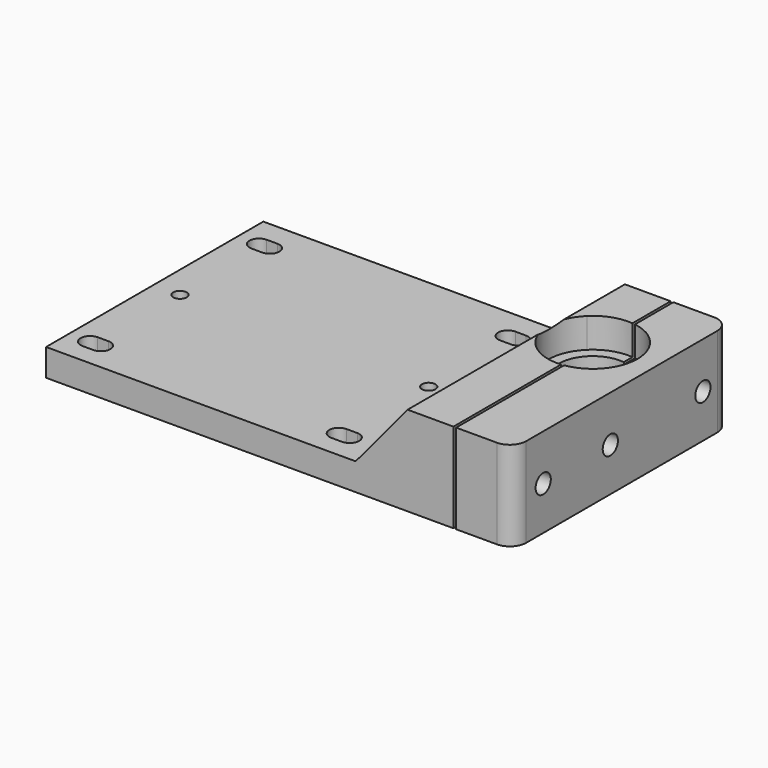
from build123d import *

# Parameters (mm, degrees)
F0_W      = 80
F0_H      = 50
F1_DEPTH  = 5
F2_W      = 23
F2_H      = 50
F3_DEPTH  = 15
F5_DEPTH  = 50
F7_DEPTH  = 25
F4_W      = 6
F4_H      = 20
F8_DEPTH  = 50
F9_R      = 1.25
F10_DEPTH = 9
F11_R     = 6.25
F11_R_2   = 1.25
F12_DEPTH = 6
F13_R     = 8.25
F13_R_2   = 1.25
F14_DEPTH = 5.5
F16_DEPTH = 25
F17_R     = 3
F19_DEPTH = 55
F21_DEPTH = 30
F24_R     = 1.25
F25_DEPTH = 10
F26_DEPTH = 10
F28_DEPTH = 30


with BuildPart() as f1:
    # F0 (on Top) → F1 (new body)
    with BuildSketch(Plane.XY):
        with Locations((40, 25)):
            Rectangle(F0_W, F0_H)
        with BuildLine():
            ThreePointArc((5.9007617161, 7.0035592838), (7.6507617161, 5.2535592838), (5.9007617161, 3.5035592838))
            Line((5.9007617161, 3.5035592838), (3.9007617161, 3.5035592838))
            ThreePointArc((3.9007617161, 3.5035592838), (2.1507617161, 5.2535592838), (3.9007617161, 7.0035592838))
            Line((3.9007617161, 7.0035592838), (5.9007617161, 7.0035592838))
        make_face(mode=Mode.SUBTRACT)
        with BuildLine():
            ThreePointArc((51.6797859669, 7.0277387462), (53.4297859669, 5.2777387462), (51.6797859669, 3.5277387462))
            Line((51.6797859669, 3.5277387462), (49.6797859669, 3.5277387462))
            ThreePointArc((49.6797859669, 3.5277387462), (47.9297859669, 5.2777387462), (49.6797859669, 7.0277387462))
            Line((49.6797859669, 7.0277387462), (51.6797859669, 7.0277387462))
        make_face(mode=Mode.SUBTRACT)
        with BuildLine():
            ThreePointArc((5.9007617161, 45.8834791875), (7.6507617161, 44.1334791875), (5.9007617161, 42.3834791875))
            Line((5.9007617161, 42.3834791875), (3.9007617161, 42.3834791875))
            ThreePointArc((3.9007617161, 42.3834791875), (2.1507617161, 44.1334791875), (3.9007617161, 45.8834791875))
            Line((3.9007617161, 45.8834791875), (5.9007617161, 45.8834791875))
        make_face(mode=Mode.SUBTRACT)
        with BuildLine():
            ThreePointArc((51.6899411082, 45.8834791875), (53.4399411082, 44.1334791875), (51.6899411082, 42.3834791875))
            Line((51.6899411082, 42.3834791875), (49.6899411082, 42.3834791875))
            ThreePointArc((49.6899411082, 42.3834791875), (47.9399411082, 44.1334791875), (49.6899411082, 45.8834791875))
            Line((49.6899411082, 45.8834791875), (51.6899411082, 45.8834791875))
        make_face(mode=Mode.SUBTRACT)
    extrude(amount=F1_DEPTH)

    # F2 (on face) → F3 (join)
    with BuildSketch(Plane.XY.offset(5)):
        with Locations((68.5, 25)):
            Rectangle(F2_W, F2_H)
    extrude(amount=F3_DEPTH)

    # F4 (on face) → F5 (cut)
    with BuildSketch(Plane.XZ):
        Polygon((57, 5), (68.5, 20), (57, 20), align=None)
    extrude(amount=-F5_DEPTH, mode=Mode.SUBTRACT)

    # F6 (on face) → F7 (cut)
    with BuildSketch(Plane.XY.offset(20)):
        with BuildLine():
            Line((74.25, 31.75), (74.25, 34.25))
            ThreePointArc((74.25, 34.25), (73, 33), (74.25, 31.75))
        make_face()
        with BuildLine():
            ThreePointArc((75.5, 33), (75.1338834765, 33.8838834765), (74.25, 34.25))
            Line((74.25, 34.25), (74.25, 31.75))
            ThreePointArc((74.25, 31.75), (75.1338834765, 32.1161165235), (75.5, 33))
        make_face()
    extrude(amount=-F7_DEPTH, mode=Mode.SUBTRACT)

    # F4 (on face) → F8 (join)
    with BuildSketch(Plane.XZ):
        with Locations((83, 10)):
            Rectangle(F4_W, F4_H)
    extrude(amount=-F8_DEPTH)

    # F9 (on face) → F10 (cut)
    with BuildSketch(Plane.XY.offset(20)):
        with BuildLine():
            Line((68.5, 27.0839202169), (68.5, 38.9160797831))
            ThreePointArc((68.5, 38.9160797831), (66, 33), (68.5, 27.0839202169))
        make_face()
        with BuildLine():
            ThreePointArc((68.5, 27.0839202169), (77.4613081447, 25.4006579232), (82.5, 33))
            ThreePointArc((82.5, 33), (77.4613081447, 40.5993420768), (68.5, 38.9160797831))
            Line((68.5, 38.9160797831), (68.5, 27.0839202169))
        make_face()
        with Locations((74.25, 33)):
            Circle(F9_R, mode=Mode.SUBTRACT)
    extrude(amount=-F10_DEPTH, mode=Mode.SUBTRACT)

    # F11 (on face) → F12 (cut)
    with BuildSketch(Plane.XY.offset(11)):
        with Locations((74.25, 33)):
            Circle(F11_R)
        with Locations((74.25, 33)):
            Circle(F11_R_2, mode=Mode.SUBTRACT)
    extrude(amount=-F12_DEPTH, mode=Mode.SUBTRACT)

    # F13 (on face) → F14 (cut)
    with BuildSketch(Plane(origin=(0, 0, 0), x_dir=(1, 0, 0), z_dir=(0, 0, -1))):
        with Locations((74.25, -33)):
            Circle(F13_R)
        with Locations((74.25, -33)):
            Circle(F13_R_2, mode=Mode.SUBTRACT)
    extrude(amount=-F14_DEPTH, mode=Mode.SUBTRACT)

    # F15 (on face) → F16 (cut)
    with BuildSketch(Plane.XY.offset(20)):
        with BuildLine():
            Line((75.5, 41.1547532152), (75.5, 50))
            Line((75.5, 50), (75, 50))
            Line((75, 50), (75, 41.2158383626))
            ThreePointArc((75, 41.2158383626), (75.2504663157, 41.1891127206), (75.5, 41.1547532152))
        make_face()
        with BuildLine():
            Line((75.5, 24.8452467848), (75.5, 41.1547532152))
            ThreePointArc((75.5, 41.1547532152), (75.2504663157, 41.1891127206), (75, 41.2158383626))
            Line((75, 41.2158383626), (75, 24.7841616374))
            ThreePointArc((75, 24.7841616374), (75.2504663157, 24.8108872794), (75.5, 24.8452467848))
        make_face()
        with BuildLine():
            Line((75.5, 0), (75.5, 24.8452467848))
            ThreePointArc((75.5, 24.8452467848), (75.2504663157, 24.8108872794), (75, 24.7841616374))
            Line((75, 24.7841616374), (75, 0))
            Line((75, 0), (75.5, 0))
        make_face()
    extrude(amount=-F16_DEPTH, mode=Mode.SUBTRACT)

    # F17
    f17_edges = [f1.edges().sort_by_distance(p)[0] for p in [
        (86, 0, 10),
        (86, 50, 10),
    ]]
    fillet(f17_edges, radius=F17_R)

    # F18 (on face) → F19 (cut)
    with BuildSketch(Plane.XZ):
        Polygon((57, 5), (69.5, 20), (68.5, 20), align=None)
    extrude(amount=-F19_DEPTH, mode=Mode.SUBTRACT)

    # F20 (on face) → F21 (cut)
    with BuildSketch(Plane.YZ.offset(86)):
        with BuildLine():
            Line((5.1647031754, 8), (8.6647031754, 8))
            ThreePointArc((8.6647031754, 8), (6.9147031754, 9.75), (5.1647031754, 8))
        make_face()
        with BuildLine():
            ThreePointArc((5.1647031754, 8), (6.9147031754, 6.25), (8.6647031754, 8))
            Line((8.6647031754, 8), (5.1647031754, 8))
        make_face()
        with BuildLine():
            ThreePointArc((24.1101590842, 8), (22.3601590842, 9.75), (20.6101590842, 8))
            Line((20.6101590842, 8), (24.1101590842, 8))
        make_face()
        with BuildLine():
            Line((24.1101590842, 8), (20.6101590842, 8))
            ThreePointArc((20.6101590842, 8), (22.3601590842, 6.25), (24.1101590842, 8))
        make_face()
        with BuildLine():
            ThreePointArc((45.4176815152, 8), (43.6676815152, 9.75), (41.9176815152, 8))
            Line((41.9176815152, 8), (45.4176815152, 8))
        make_face()
        with BuildLine():
            Line((45.4176815152, 8), (41.9176815152, 8))
            ThreePointArc((41.9176815152, 8), (43.6676815152, 6.25), (45.4176815152, 8))
        make_face()
    extrude(amount=-F21_DEPTH, mode=Mode.SUBTRACT)

    # F24 (on face) → F25 (cut)
    with BuildSketch(Plane(origin=(0, 0, 0), x_dir=(1, 0, 0), z_dir=(0, 0, -1))):
        with Locations((4.9007617161, -24.6935192357)):
            Circle(F24_R)
        with Locations((50.6899411082, -24.6935192357)):
            Circle(F24_R)
    extrude(amount=-F25_DEPTH, mode=Mode.SUBTRACT)

    # F23 (on offset) → F26 (cut)
    with BuildSketch(Plane.YZ.offset(57)):
        Polygon((45.3940773321, 11), (41.929975717, 11), (40.1979249094, 8), (41.929975717, 5), (45.3940773321, 5), (47.1261281397, 8), align=None)
        Polygon((24.0227835191, 11), (20.558681904, 11), (18.8266310964, 8), (20.558681904, 5), (24.0227835191, 5), (25.7548343267, 8), align=None)
        Polygon((8.6352921961, 11), (5.1711905809, 11), (3.4391397734, 8), (5.1711905809, 5), (8.6352921961, 5), (10.3673430036, 8), align=None)
    extrude(amount=F26_DEPTH, mode=Mode.SUBTRACT)

    # F27 (on offset) → F28 (cut)
    with BuildSketch(Plane.YZ.offset(57)):
        Polygon((50.410144031, 16.4787229151), (50.410144031, 19.4787229151), (50.410144031, 20.4787229151), (-0.8298081812, 20.4787229151), (-0.8298081812, 16.4787229151), align=None)
    extrude(amount=F28_DEPTH, mode=Mode.SUBTRACT)


solid = f1.part
